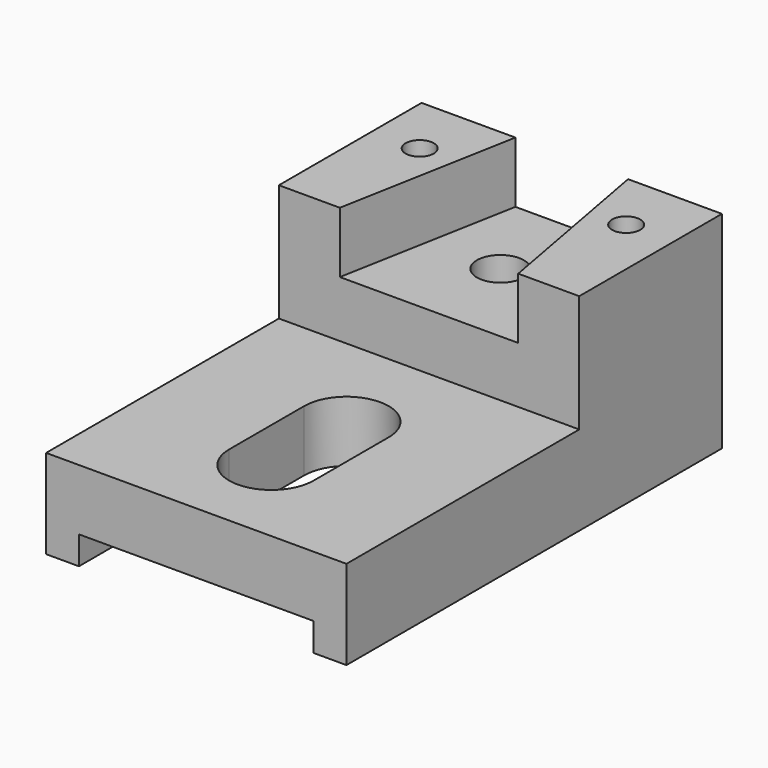
from build123d import *

# Parameters (mm, degrees)
SKETCH_W        = 64
SKETCH_H        = 100
PAD_DEPTH       = 19
SKETCH001_W     = 50
SKETCH001_H     = 12.746663
POCKET_DEPTH    = 100.001
SKETCH002_W     = 64
SKETCH002_H     = 38
PAD001_DEPTH    = 25
POCKET001_DEPTH = 13
SKETCH004_R     = 3
SKETCH004_R_2   = 5
POCKET002_DEPTH = 20
SKETCH005_R     = 5
POCKET003_DEPTH = 24.001
POCKET004_DEPTH = 19.001


with BuildPart() as part:
    # Sketch → Pad (new body)
    with BuildSketch(Plane.XY):
        Rectangle(SKETCH_W, SKETCH_H)
    extrude(amount=PAD_DEPTH)

    # Sketch001 → Pocket (cut, through all)
    with BuildSketch(Plane.XZ.offset(50)):
        with Locations((0, -0.373331)):
            Rectangle(SKETCH001_W, SKETCH001_H)
    extrude(amount=-POCKET_DEPTH, mode=Mode.SUBTRACT)

    # Sketch002 → Pad001 (new body)
    with BuildSketch(Plane.XY.offset(19)):
        with Locations((0, 31)):
            Rectangle(SKETCH002_W, SKETCH002_H)
    extrude(amount=PAD001_DEPTH)

    # Sketch003 → Pocket001 (cut)
    with BuildSketch(Plane.XY.offset(44)):
        Polygon((-12, 50), (-19, 12), (19, 12), (12, 50), align=None)
    extrude(amount=-POCKET001_DEPTH, mode=Mode.SUBTRACT)

    # Sketch004 → Pocket002 (cut)
    with BuildSketch(Plane.XY.offset(44)):
        with Locations((-22, 37)):
            Circle(SKETCH004_R)
        with Locations((22, 37)):
            Circle(SKETCH004_R)
        with Locations((0, 31)):
            Circle(SKETCH004_R_2)
    extrude(amount=-POCKET002_DEPTH, mode=Mode.SUBTRACT)

    # Sketch005 → Pocket003 (cut, through all)
    with BuildSketch(Plane.XY.offset(24)):
        with Locations((0, 31)):
            Circle(SKETCH005_R)
    extrude(amount=-POCKET003_DEPTH, mode=Mode.SUBTRACT)

    # Sketch006 → Pocket004 (cut, through all)
    with BuildSketch(Plane.XY.offset(19)):
        with BuildLine():
            ThreePointArc((9, -10), (0, -1), (-9, -10))
            Line((-9, -10), (-9, -30))
            ThreePointArc((-9, -30), (0, -39), (9, -30))
            Line((9, -10), (9, -30))
        make_face()
    extrude(amount=-POCKET004_DEPTH, mode=Mode.SUBTRACT)


solid = part.part
